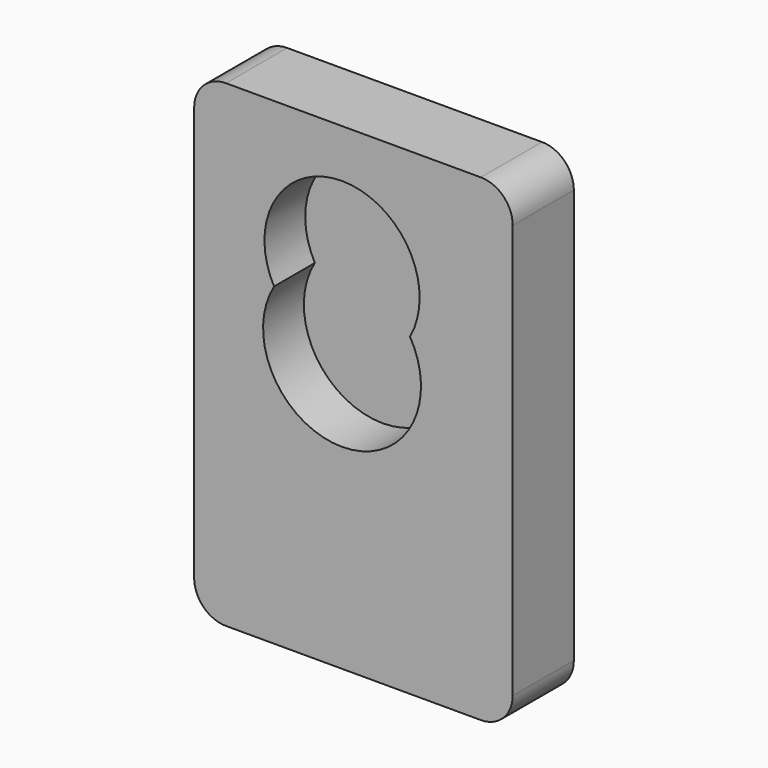
from build123d import *

# Parameters (mm, degrees)
F0_W     = 50
F0_H     = 75
F1_DEPTH = 12
F3_DEPTH = 8
F4_R     = 5


with BuildPart() as f1:
    # F0 (on Front) → F1 (new body)
    with BuildSketch(Plane.XZ):
        with Locations((25, 37.5)):
            Rectangle(F0_W, F0_H)
    extrude(amount=F1_DEPTH)

    # F2 (on face) → F3 (cut)
    with BuildSketch(Plane.XZ.offset(12)):
        with BuildLine():
            ThreePointArc((12.545369, 49.367264), (23.213018, 30.672003), (33.880667, 49.367264))
            ThreePointArc((33.880667, 49.367264), (23.213018, 67.418774), (12.545369, 49.367264))
        make_face()
    extrude(amount=-F3_DEPTH, mode=Mode.SUBTRACT)

    # F4
    f4_edges = [f1.edges().sort_by_distance(p)[0] for p in [
        (50, -6, 0),
        (50, -6, 75),
        (0, -6, 75),
        (0, -6, 0),
    ]]
    fillet(f4_edges, radius=F4_R)


solid = f1.part
